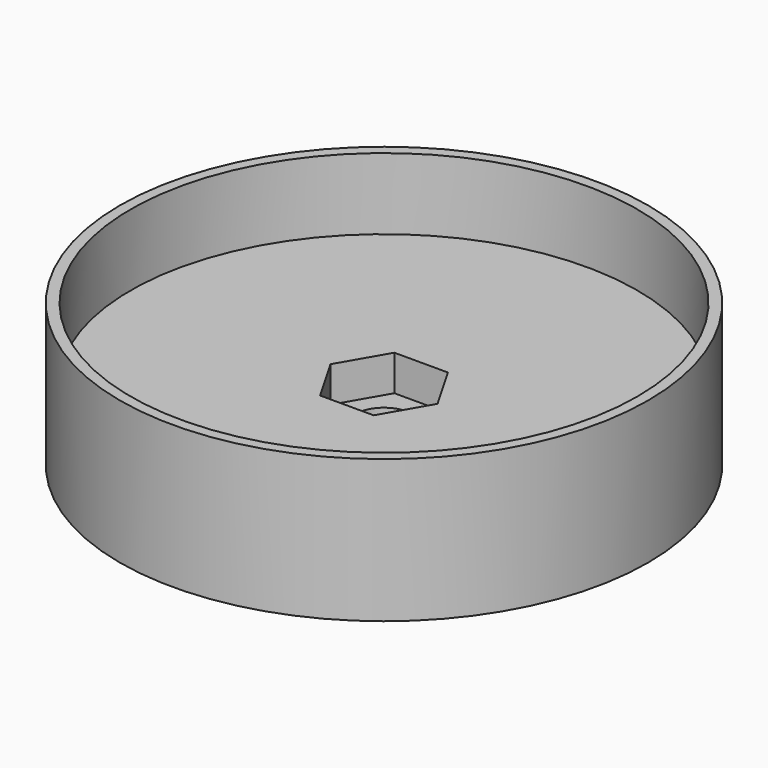
from build123d import *

# Parameters (mm, degrees)
EXTRUDE_DEPTH     = 5
CYLINDER_R        = 37
CYLINDER_DEPTH    = 20
CYLINDER001_R     = 35.5
CYLINDER001_DEPTH = 10
CYLINDER002_R     = 4
CYLINDER002_DEPTH = 5


with BuildPart() as extrude_body:
    # Polygon → Extrude (new body)
    with BuildSketch(Plane.XY):
        Polygon((7.505, 0), (3.7525, 6.499521), (-3.7525, 6.499521), (-7.505, 0), (-3.7525, -6.499521), (3.7525, -6.499521), align=None)
    extrude(amount=EXTRUDE_DEPTH)


with BuildPart() as extrude_body_1:
    # Extrude placement: moved
    add(extrude_body.part.moved(Location((0, 0, 5))))


with BuildPart() as cylinder:
    # Cylinder → Cylinder (new body)
    with BuildSketch(Plane.XY):
        Circle(CYLINDER_R)
    extrude(amount=CYLINDER_DEPTH)


with BuildPart() as cut:
    # Cut base: copy of Cylinder
    add(cylinder.part)

    # Cut: cut Extrude body
    add(extrude_body_1.part, mode=Mode.SUBTRACT)


with BuildPart() as cylinder001:
    # Cylinder001 → Cylinder001 (new body)
    with BuildSketch(Plane.XY.offset(10)):
        Circle(CYLINDER001_R)
    extrude(amount=CYLINDER001_DEPTH)


with BuildPart() as cut001:
    # Cut001 base: copy of Cylinder
    add(cylinder.part)

    # Cut001: cut Cylinder001
    add(cylinder001.part, mode=Mode.SUBTRACT)


with BuildPart() as cylinder002:
    # Cylinder002 → Cylinder002 (new body)
    with BuildSketch(Plane.XY):
        Circle(CYLINDER002_R)
    extrude(amount=CYLINDER002_DEPTH)


with BuildPart() as common:
    # Cut002 base: copy of Cylinder
    add(cylinder.part)

    # Cut002: cut Cylinder002
    add(cylinder002.part, mode=Mode.SUBTRACT)

    # Common: intersect Cut, Cut001
    add(cut.part, mode=Mode.INTERSECT)
    add(cut001.part, mode=Mode.INTERSECT)


solid = common.part
